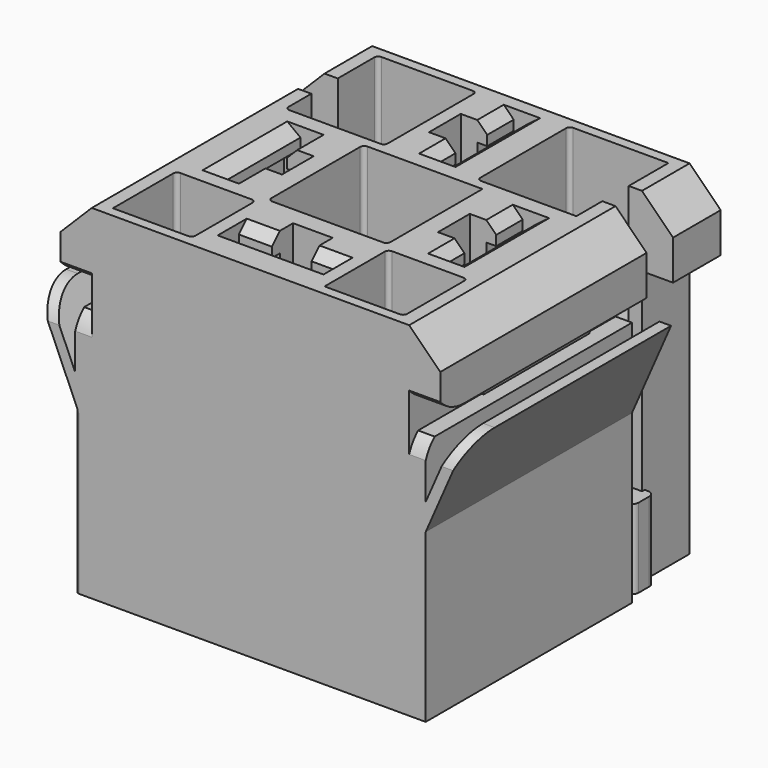
from build123d import *

# Parameters (mm, degrees)
PAD_DEPTH               = 6
PAD002_DEPTH            = 3
POCKET004_DEPTH         = 1.5
SKETCH019_W             = 7
SKETCH019_H             = 10
SKETCH019_W_2           = 5
SKETCH019_H_2           = 8
SKETCH019_W_3           = 10
SKETCH019_H_3           = 7
SKETCH019_W_4           = 8
SKETCH019_H_4           = 5
EXTRUDE003_DEPTH        = 4
EXTRUDE001_DEPTH        = 30
SKETCH018_W             = 7.5
SKETCH018_H             = 8.7
SKETCH018_W_2           = 6
SKETCH018_H_2           = 6
SKETCH018_W_3           = 9
SKETCH018_H_3           = 9
EXTRUDE002_DEPTH        = 10
SKETCH016_W             = 50
SKETCH016_H             = 10
EXTRUDE_DEPTH           = 30
PAD003_DEPTH            = 10
SKETCH010_W             = 1
SKETCH010_H             = 24
PAD004_DEPTH            = 6
SKETCH011_W             = 2
SKETCH011_H             = 3
POCKET005_DEPTH         = 9.5
POCKET006_DEPTH         = 22.5
BODY002_PLACEMENT_ANGLE = 90
BODY003_PLACEMENT_ANGLE = 90
BODY004_PLACEMENT_ANGLE = 90
BODY005_PLACEMENT_ANGLE = 90
PAD001_DEPTH            = 26.5
SKETCH_W                = 5.25
SKETCH_H                = 20.65
POCKET_DEPTH            = 7
SKETCH002_W             = 30
SKETCH002_H             = 2.5
POCKET001_DEPTH         = 1
POCKET001_DEPTH_BACK    = 5
POCKET002_DEPTH         = 8
SKETCH005_W             = 7.5
SKETCH005_H             = 8.2
SKETCH005_W_2           = 6
SKETCH005_H_2           = 6
SKETCH005_W_3           = 9
SKETCH005_H_3           = 9
POCKET003_DEPTH         = 10
SKETCH015_W             = 6.5
SKETCH015_H             = 9.25
SKETCH015_W_2           = 9.25
SKETCH015_H_2           = 6.5
POCKET007_DEPTH         = 26.001
FILLET_R                = 0.3


with BuildPart() as locks:
    # Sketch006 → Pad (new body)
    with BuildSketch(Plane.XY):
        with BuildLine():
            Line((-10.25, -1.75), (-10.25, -4.25))
            Line((-10.25, -4.25), (-12.25, -4.25))
            ThreePointArc((-12.25, -4.25), (-12.603553, -4.396447), (-12.75, -4.75))
            Line((-12.75, -4.75), (-12.75, -5.75))
            ThreePointArc((-12.75, -5.75), (-12.603553, -6.103553), (-12.25, -6.25))
            Line((-12.25, -6.25), (-10.25, -6.25))
            Line((-10.25, -6.25), (-10.25, -7.74999))
            ThreePointArc((-10.25, -7.74999), (-9.95711, -8.457103), (-9.25, -8.75))
            Line((-9.25, -8.75), (-4.5, -8.75))
            ThreePointArc((-4.5, -8.75), (-3.792893, -8.457107), (-3.5, -7.75))
            Line((-3.5, -7.75), (-3.5, -1.75))
            ThreePointArc((-3.5, -1.75), (-3.792893, -1.042893), (-4.5, -0.75))
            Line((-4.5, -0.75), (-9.25, -0.75))
            ThreePointArc((-9.25, -0.75), (-9.957107, -1.042893), (-10.25, -1.75))
        make_face()
    extrude(amount=PAD_DEPTH)

    # Sketch007 (on Face16 of Pad) → Pad002 (join)
    with BuildSketch(Plane.XY.offset(6)):
        with BuildLine():
            Line((-7.5, -0.75), (-7.5, -8.75))
            Line((-7.5, -8.75), (-4.5, -8.75))
            ThreePointArc((-4.5, -8.75), (-3.792893, -8.457107), (-3.5, -7.75))
            Line((-3.5, -7.75), (-3.5, -1.75))
            ThreePointArc((-3.5, -1.75), (-3.792893, -1.042893), (-4.5, -0.75))
            Line((-4.5, -0.75), (-7.5, -0.75))
        make_face()
    extrude(amount=PAD002_DEPTH)

    # Sketch008 (on Face12 of Pad002) → Pocket004 (cut)
    with BuildSketch(Plane(origin=(-7.5, 0, 0), x_dir=(0, -1, 0), z_dir=(-1, 0, 0))):
        with BuildLine():
            ThreePointArc((2.75, 7.75), (2.25, 7.25), (2.75, 6.75))
            Line((2.75, 6.75), (6.75, 6.75))
            ThreePointArc((6.75, 6.75), (7.25, 7.25), (6.75, 7.75))
            Line((2.75, 7.75), (6.75, 7.75))
        make_face()
    extrude(amount=-POCKET004_DEPTH, mode=Mode.SUBTRACT)

    # Mirrored001: Locks across YZ


with BuildPart() as locks_1:
    add(locks.part)
    add(locks.part.mirror(Plane.YZ))


with BuildPart() as filledpinbottom:
    # Sketch019 → Extrude003 (new body)
    with BuildSketch(Plane(origin=(0, 0, 0), x_dir=(1, 0, 0), z_dir=(0, 0, -1))):
        with Locations((-8.65, 14.65)):
            Rectangle(SKETCH019_W, SKETCH019_H)
        with Locations((-8.65, 14.65)):
            Rectangle(SKETCH019_W_2, SKETCH019_H_2, mode=Mode.SUBTRACT)
        with Locations((0, 23)):
            Rectangle(SKETCH019_W_3, SKETCH019_H_3)
        with Locations((0, 23.35)):
            Rectangle(SKETCH019_W_4, SKETCH019_H_4, mode=Mode.SUBTRACT)
        with Locations((8.65, 14.65)):
            Rectangle(SKETCH019_W, SKETCH019_H)
        with Locations((8.65, 14.65)):
            Rectangle(SKETCH019_W_2, SKETCH019_H_2, mode=Mode.SUBTRACT)
        with Locations((0.25, 5)):
            Rectangle(SKETCH019_W, SKETCH019_H)
        with Locations((0.25, 5)):
            Rectangle(SKETCH019_W_2, SKETCH019_H_2, mode=Mode.SUBTRACT)
    extrude(amount=-EXTRUDE003_DEPTH)


with BuildPart() as cleanupangleextrude:
    # Sketch017 → Extrude001 (new body)
    with BuildSketch(Plane.XZ):
        Polygon((-18, 20), (-12, 26), (12, 26), (18, 20), (25, 20), (25, 30), (-25, 30), (-25, 20), align=None)
    extrude(amount=EXTRUDE001_DEPTH)


with BuildPart() as cleanuptopholesextrude:
    # Sketch018 (on Face44 of Mirrored) → Extrude002 (new body)
    with BuildSketch(Plane(origin=(0, 0, 26), x_dir=(-1, 0, 0), z_dir=(0, 0, 1))):
        with Locations((-7.25, 5.1)):
            Rectangle(SKETCH018_W, SKETCH018_H)
        with Locations((7.25, 5.1)):
            Rectangle(SKETCH018_W, SKETCH018_H)
        with Locations((-8, 22.75)):
            Rectangle(SKETCH018_W_2, SKETCH018_H_2)
        with Locations((8, 22.75)):
            Rectangle(SKETCH018_W_2, SKETCH018_H_2)
        with Locations((0, 14.7)):
            Rectangle(SKETCH018_W_3, SKETCH018_H_3)
    extrude(amount=-EXTRUDE002_DEPTH)


with BuildPart() as cleanupextrudes:
    # Sketch016 → Extrude (new body)
    with BuildSketch(Plane.XY):
        with Locations((0, -31.5)):
            Rectangle(SKETCH016_W, SKETCH016_H)
    extrude(amount=EXTRUDE_DEPTH)

    # Fusion001: union CleanUpAngleExtrude, CleanUpTopHolesExtrude
    add(cleanupangleextrude.part)
    add(cleanuptopholesextrude.part)


with BuildPart() as pinhousing:
    # Sketch009 → Pad003 (new body)
    with BuildSketch(Plane.YZ):
        Polygon((0, 0), (0, 1), (11, 1), (13, 2), (22.5, 2), (22.5, 2.75), (23.25, 2.75), (24, 2), (24, 0), align=None)
        Polygon((0, 6), (12, 6), (14, 3.75), (23.25, 3.75), (24, 4.75), (24, 7), (0, 7), align=None)
    extrude(amount=PAD003_DEPTH)

    # Sketch010 → Pad004 (join)
    with BuildSketch(Plane.XY):
        with Locations((0.5, 12)):
            Rectangle(SKETCH010_W, SKETCH010_H)
        with Locations((9.5, 12)):
            Rectangle(SKETCH010_W, SKETCH010_H)
    extrude(amount=PAD004_DEPTH)

    # Sketch011 (on Face17 of Pad003) → Pocket005 (cut)
    with BuildSketch(Plane.ZX.offset(24)):
        with Locations((1.75, 5)):
            Rectangle(SKETCH011_W, SKETCH011_H)
    extrude(amount=-POCKET005_DEPTH, mode=Mode.SUBTRACT)

    # Sketch003 → Pocket006 (cut)
    with BuildSketch(Plane.XZ):
        Polygon((1, 5), (4.23, 5), (5, 3.75), (5.77, 5), (9, 5), (9, 3.5), (1, 3.5), align=None)
    extrude(amount=-POCKET006_DEPTH, mode=Mode.SUBTRACT)


with BuildPart() as pinhousing_1:
    # Body002 placement: moved
    add(pinhousing.part.moved(Location((0, 0, 2))).rotate(Axis((0, 0, 2), (1, 0, 0)), BODY002_PLACEMENT_ANGLE))


with BuildPart() as pin1:
    # Body003 base: copy of PinHousing
    add(pinhousing_1.part)


with BuildPart() as pin1_1:
    # Body003 placement: moved
    add(pin1.part.moved(Location((-3.25, -10, 0))).rotate(Axis((-3.25, -10, 0), (0, 0, 1)), BODY003_PLACEMENT_ANGLE))


with BuildPart() as pin2:
    # Body004 base: copy of PinHousing
    add(pinhousing_1.part)


with BuildPart() as pin2_1:
    # Body004 placement: moved
    add(pin2.part.moved(Location((-5.15, -9.65, 0))).rotate(Axis((-5.15, -9.65, 0), (0, 0, -1)), BODY004_PLACEMENT_ANGLE))


with BuildPart() as pin3:
    # Body005 base: copy of PinHousing
    add(pinhousing_1.part)


with BuildPart() as pin3_1:
    # Body005 placement: moved
    add(pin3.part.moved(Location((5.15, -19.65, 0))).rotate(Axis((5.15, -19.65, 0), (0, 0, 1)), BODY005_PLACEMENT_ANGLE))


with BuildPart() as pin4:
    # Body006 base: copy of PinHousing
    add(pinhousing_1.part)


with BuildPart() as pin4_1:
    # Body006 placement: moved
    add(pin4.part.moved(Location((-5, -19.85, 0))))


with BuildPart() as fillet_body:
    # Sketch001 → Pad001 (new body)
    with BuildSketch(Plane.XZ):
        Polygon((0, 0), (0, 26), (12, 26), (14.35, 23.65), (14.35, 20.65), (12, 20.65), (12, 18.65), (13.25, 18.65), (13.25, 14.65), (15.325926, 19.4), (16.2, 19.4), (13.25, 12.65), (13.25, 0), align=None)
    extrude(amount=PAD001_DEPTH)

    # Sketch → Pocket (cut)
    with BuildSketch(Plane.XZ):
        with Locations((14.625, 10.325)):
            Rectangle(SKETCH_W, SKETCH_H)
    extrude(amount=POCKET_DEPTH, mode=Mode.SUBTRACT)

    # Sketch002 → Pocket001 (cut, two sides)
    with BuildSketch(Plane(origin=(12, 0, 0), x_dir=(0, 0, 1), z_dir=(1, 0, 0))) as pocket001_sk:
        with Locations((15, 5.75)):
            Rectangle(SKETCH002_W, SKETCH002_H)
    extrude(amount=-POCKET001_DEPTH, mode=Mode.SUBTRACT)
    extrude(pocket001_sk.sketch, amount=POCKET001_DEPTH_BACK, mode=Mode.SUBTRACT)

    # Sketch004 → Pocket002 (cut)
    with BuildSketch(Plane.YZ.offset(20)):
        with BuildLine():
            ThreePointArc((-26.5, 21.65), (-25.488677, 20.911387), (-24.263932, 20.65))
            Line((-23.671573, 19.4), (-24.263932, 20.65))
            ThreePointArc((-23.671573, 19.4), (-25.403624, 18.84949), (-26.5, 17.4))
            Line((-26.5, 21.65), (-26.5, 17.4))
        make_face()
    extrude(amount=-POCKET002_DEPTH, mode=Mode.SUBTRACT)

    # Mirrored: Fillet body across YZ


with BuildPart() as fillet_body_1:
    add(fillet_body.part)
    add(fillet_body.part.mirror(Plane.YZ))

    # Sketch005 (on Face44 of Mirrored) → Pocket003 (cut)
    with BuildSketch(Plane(origin=(0, 0, 26), x_dir=(-1, 0, 0), z_dir=(0, 0, 1))):
        with Locations((-7.25, 5.35)):
            Rectangle(SKETCH005_W, SKETCH005_H)
        with Locations((7.25, 5.35)):
            Rectangle(SKETCH005_W, SKETCH005_H)
        with Locations((-8, 22.75)):
            Rectangle(SKETCH005_W_2, SKETCH005_H_2)
        with Locations((8, 22.75)):
            Rectangle(SKETCH005_W_2, SKETCH005_H_2)
        with Locations((0, 14.7)):
            Rectangle(SKETCH005_W_3, SKETCH005_H_3)
    extrude(amount=-POCKET003_DEPTH, mode=Mode.SUBTRACT)

    # Sketch015 → Pocket007 (cut, through all)
    with BuildSketch(Plane.XY):
        with Locations((0.15, -5.025)):
            Rectangle(SKETCH015_W, SKETCH015_H)
        with Locations((-8.65, -14.575)):
            Rectangle(SKETCH015_W, SKETCH015_H)
        with Locations((0, -23.2)):
            Rectangle(SKETCH015_W_2, SKETCH015_H_2)
        with Locations((8.65, -14.575)):
            Rectangle(SKETCH015_W, SKETCH015_H)
    extrude(amount=POCKET007_DEPTH, mode=Mode.SUBTRACT)

    # Fusion: union Pin1, Pin2, Pin3, Pin4
    add(pin1_1.part)
    add(pin2_1.part)
    add(pin3_1.part)
    add(pin4_1.part)

    # Cut: cut CleanUpExtrudes
    add(cleanupextrudes.part, mode=Mode.SUBTRACT)

    # Fusion002: union FilledPinBottom
    add(filledpinbottom.part)

    # Fillet
    fillet_edges = [fillet_body_1.edges().sort_by_distance(p)[0] for p in [
        (-13.25, -26.5, 6.325),
        (3.5, -9.45, 21),
        (-11, -9.45, 21),
        (-3.5, -9.45, 21),
        (-3.5, -0.75, 21),
        (-11, -0.75, 21),
        (-14.35, -2.25, 23.65),
        (3.5, -0.75, 21),
        (1.125, -1, 24.5),
        (11, -25.75, 21),
        (5, -19.75, 21),
        (11, -19.75, 21),
        (4.5, -19.2, 21),
        (-4.5, -19.2, 21),
        (-4.5, -10.2, 21),
        (-5, -19.75, 21),
        (-5, -25.75, 21),
        (-6.525, -16.15, 16.5),
        (-11, -19.75, 21),
    ]]
    fillet(fillet_edges, radius=FILLET_R)


solid = Compound([locks_1.part, fillet_body_1.part])
